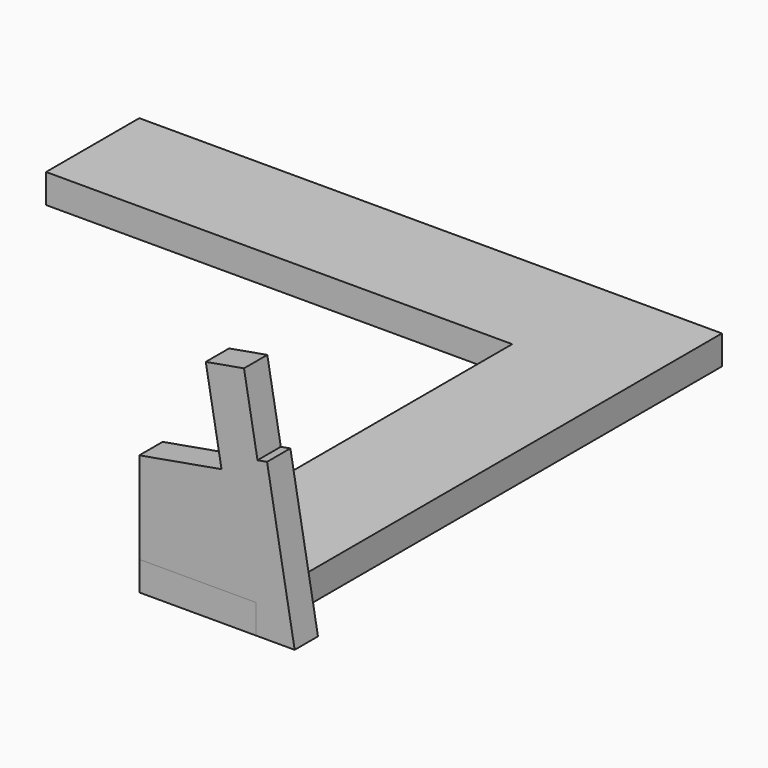
from build123d import *

# Parameters (mm, degrees)
F1_DEPTH = 19.05
F3_DEPTH = 19.05


with BuildPart() as f1:
    # F0 (on Front) → F1 (new body)
    with BuildSketch(Plane.XZ):
        Polygon((-25.4, 0), (0, 0), (-18.050904, 102.371766), (-24.304434, 101.2691), (-33.125761, 151.297334), (-58.139878, 146.88667), (-47.833204, 88.434616), (-101.6, 78.954079), (-101.6, 19.05), (-25.4, 19.05), align=None)
    extrude(amount=F1_DEPTH)


with BuildPart() as f3:
    # F2 (on Top) → F3 (new body)
    with BuildSketch(Plane.XY):
        Polygon((-101.6, -19.05), (-25.4, -19.05), (-25.4, 285.75), (-25.4, 361.95), (-406.4, 361.95), (-406.4, 285.75), (-101.6, 285.75), align=None)
    extrude(amount=F3_DEPTH)


solid = Compound([f1.part, f3.part])
